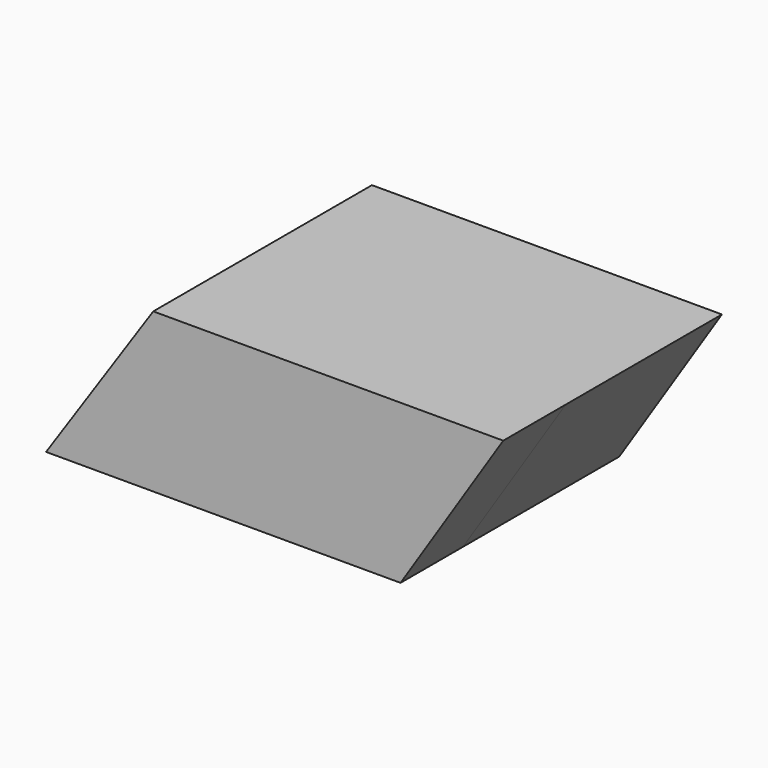
from build123d import *

# Parameters (mm, degrees)
F1_DEPTH      = 25
F2_DEPTH      = 10
F2_DEPTH_BACK = 10


with BuildPart() as f1:
    # F0 (on Front) → F1 (new body)
    with BuildSketch(Plane.XZ):
        Polygon((-61.125673, 62.646315), (-74.846938, 42.339534), (-29.4629, 42.339534), (-16.313396, 62.646315), align=None)
    extrude(amount=F1_DEPTH)

    # F1_face (on face) → F2 (join, two sides)
    with BuildSketch(Plane(origin=(-45.451422, -25, 52.47147), x_dir=(1, 0, 0), z_dir=(0, -1, 0))) as f2_sk:
        Polygon((-15.674252, 10.174845), (-29.395517, -10.131936), (15.988522, -10.131936), (29.138025, 10.174845), align=None)
    extrude(amount=F2_DEPTH)
    extrude(f2_sk.sketch, amount=-F2_DEPTH_BACK)


solid = f1.part
